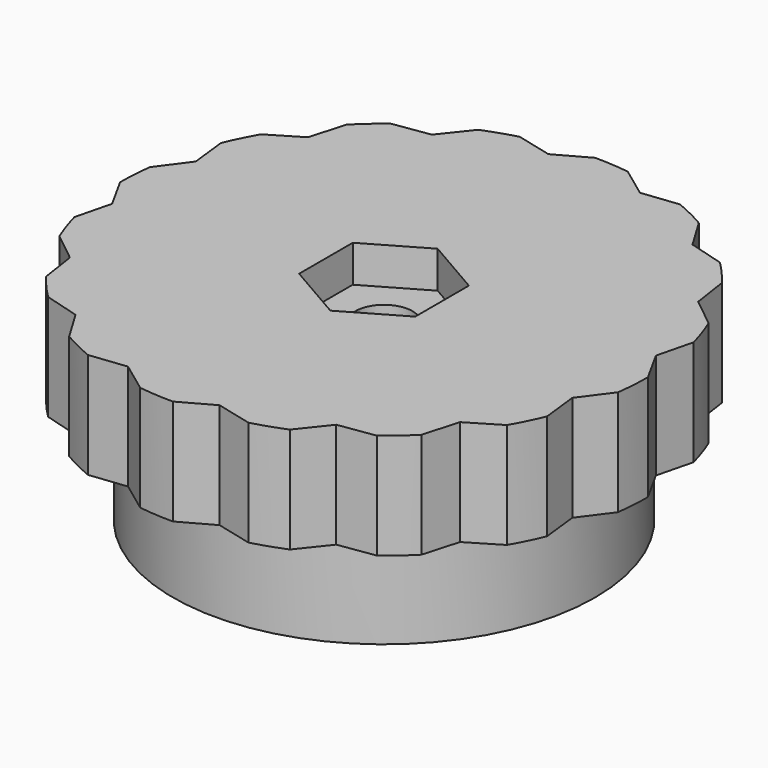
from build123d import *

# Parameters (mm, degrees)
SKETCH_R           = 25
SKETCH_R_2         = 2.7
PAD_DEPTH          = 10
POCKET_DEPTH       = 3.5
POCKET001_DEPTH    = 152.829569
POLARPATTERN_COUNT = 16
SKETCH003_R        = 20
SKETCH003_R_2      = 2.7
PAD001_DEPTH       = 10


with BuildPart() as part:
    # Sketch → Pad (new body)
    with BuildSketch(Plane.XY):
        Circle(SKETCH_R)
        Circle(SKETCH_R_2, mode=Mode.SUBTRACT)
    extrude(amount=PAD_DEPTH)

    # Sketch001 (on DatumPlane) → Pocket (cut)
    with BuildSketch(Plane.XY.offset(10)):
        Polygon((5.5, -3.175426), (5.5, 3.175426), (0, 6.350853), (-5.5, 3.175426), (-5.5, -3.175426), (0, -6.350853), align=None)
    extrude(amount=-POCKET_DEPTH, mode=Mode.SUBTRACT)

    # Sketch002 (on DatumPlane) → Pocket001 (cut, through all)
    with BuildSketch(Plane.XY.offset(10)):
        with BuildLine():
            Line((24.148146, 6.470476), (23.298954, 3.067366))
            Line((23.298954, 3.067366), (25, 0))
            ThreePointArc((25, 0), (26.776409, 3.525181), (24.148146, 6.470476))
        make_face()
    pocket001 = extrude(amount=-POCKET001_DEPTH, mode=Mode.SUBTRACT)

    # PolarPattern: Pocket001 ×16 about axis
    polarpattern_axis = Axis((0, 0, 10), (0, 0, 1))
    for i in range(1, POLARPATTERN_COUNT):
        add(pocket001.rotate(polarpattern_axis, i * 360 / POLARPATTERN_COUNT), mode=Mode.SUBTRACT)

    # Sketch003 (on Face5 of PolarPattern) → Pad001 (join)
    with BuildSketch(Plane(origin=(0, 0, 0), x_dir=(1, 0, 0), z_dir=(0, 0, -1))):
        Circle(SKETCH003_R)
        Circle(SKETCH003_R_2, mode=Mode.SUBTRACT)
    extrude(amount=PAD001_DEPTH)


solid = part.part
